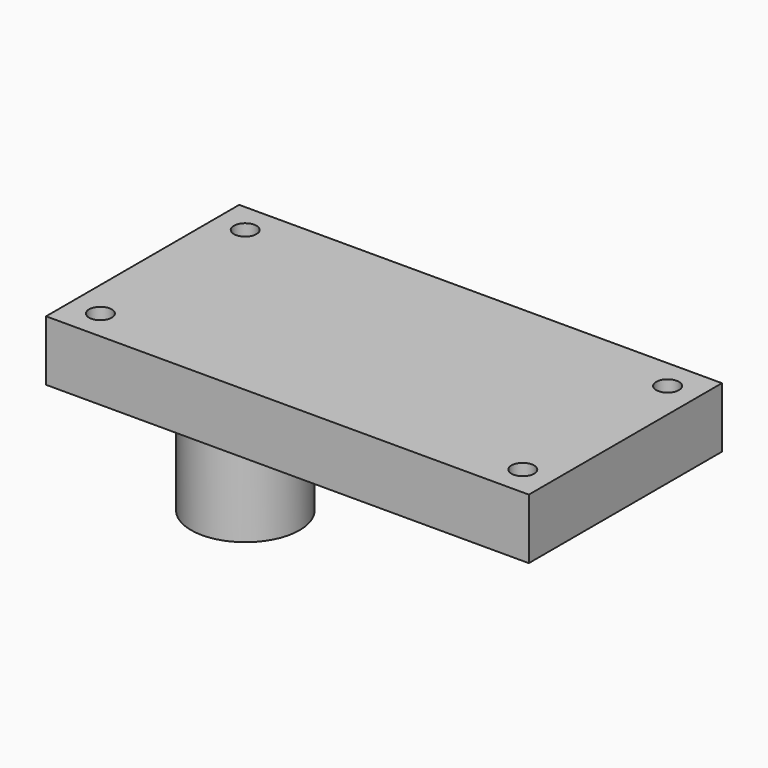
from build123d import *

# Parameters (mm, degrees)
F0_W     = 101.6
F0_H     = 50.8
F0_R     = 2.38125
F1_DEPTH = 12.7
F2_R     = 11.409303
F3_DEPTH = 25.4


with BuildPart() as f1:
    # F0 (on Top) → F1 (new body)
    with BuildSketch(Plane.XY):
        with Locations((50.8, -25.4)):
            Rectangle(F0_W, F0_H)
        with Locations((6.35, -44.45)):
            Circle(F0_R, mode=Mode.SUBTRACT)
        with Locations((95.25, -44.45)):
            Circle(F0_R, mode=Mode.SUBTRACT)
        with Locations((6.35, -6.35)):
            Circle(F0_R, mode=Mode.SUBTRACT)
        with Locations((95.25, -6.35)):
            Circle(F0_R, mode=Mode.SUBTRACT)
    extrude(amount=-F1_DEPTH)

    # F2 (on face) → F3 (join)
    with BuildSketch(Plane(origin=(0, 0, -12.7), x_dir=(1, 0, 0), z_dir=(0, 0, -1))):
        with Locations((22.966206, 27.079653)):
            Circle(F2_R)
    extrude(amount=F3_DEPTH)


solid = f1.part
